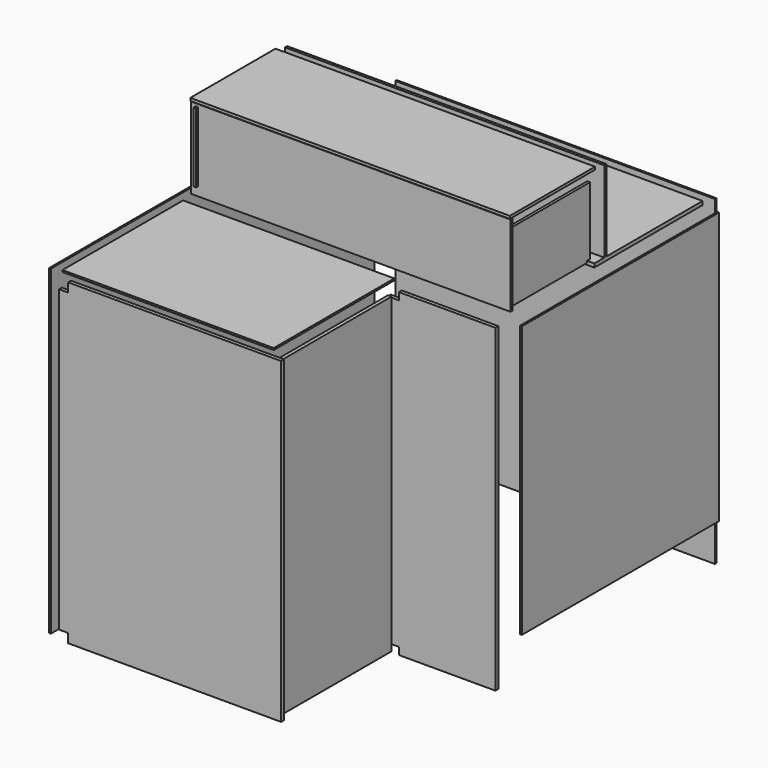
from build123d import *

# Parameters (mm, degrees)
BOX012_W     = 354
BOX012_H     = 118
BOX012_DEPTH = 3
BOX013_W     = 354
BOX013_H     = 90
BOX013_DEPTH = 3
BOX014_W     = 354
BOX014_H     = 90
BOX014_DEPTH = 3
BOX015_W     = 234
BOX015_H     = 167
BOX015_DEPTH = 2
BOX016_W     = 354
BOX016_H     = 150
BOX016_DEPTH = 4
BOX017_W     = 115
BOX017_H     = 77
BOX017_DEPTH = 3
BOX018_W     = 110
BOX018_H     = 77
BOX018_DEPTH = 3
BOX019_W     = 356
BOX019_H     = 448
BOX019_DEPTH = 2
BOX020_W     = 301
BOX020_H     = 273
BOX020_DEPTH = 2
BOX021_W     = 356
BOX021_H     = 354
BOX021_DEPTH = 2
PAD_DEPTH    = 4
PAD001_DEPTH = 4
PAD002_DEPTH = 4


with BuildPart() as obj1:
    # Box012 → Box012 (new body)
    with BuildSketch(Plane(origin=(-212, -59, 415), x_dir=(1, 0, 0), z_dir=(0, 0, 1))):
        with Locations((177, 59)):
            Rectangle(BOX012_W, BOX012_H)
    extrude(amount=BOX012_DEPTH)


with BuildPart() as obj2:
    # Box013 → Box013 (new body)
    with BuildSketch(Plane(origin=(-212, -55, 324), x_dir=(1, 0, 0), z_dir=(0, -1, 0))):
        with Locations((177, 45)):
            Rectangle(BOX013_W, BOX013_H)
    extrude(amount=BOX013_DEPTH)


with BuildPart() as obj3:
    # Box014 → Box014 (new body)
    with BuildSketch(Plane(origin=(-212, 75, 324), x_dir=(1, 0, 0), z_dir=(0, -1, 0))):
        with Locations((177, 45)):
            Rectangle(BOX014_W, BOX014_H)
    extrude(amount=BOX014_DEPTH)


with BuildPart() as obj4:
    # Box015 → Box015 (new body)
    with BuildSketch(Plane(origin=(-212, -236, 320), x_dir=(1, 0, 0), z_dir=(0, 0, 1))):
        with Locations((117, 83.5)):
            Rectangle(BOX015_W, BOX015_H)
    extrude(amount=BOX015_DEPTH)


with BuildPart() as obj5:
    # Box016 → Box016 (new body)
    with BuildSketch(Plane(origin=(-212, 58, 320), x_dir=(1, 0, 0), z_dir=(0, 0, 1))):
        with Locations((177, 75)):
            Rectangle(BOX016_W, BOX016_H)
    extrude(amount=BOX016_DEPTH)


with BuildPart() as obj6:
    # Box017 → Box017 (new body)
    with BuildSketch(Plane(origin=(134, 62, 322), x_dir=(0, -1, 0), z_dir=(-1, 0, 0))):
        with Locations((57.5, 38.5)):
            Rectangle(BOX017_W, BOX017_H)
    extrude(amount=BOX017_DEPTH)


with BuildPart() as obj7:
    # Box018 → Box018 (new body)
    with BuildSketch(Plane(origin=(-207, -61, 334), x_dir=(0, 1, 0), z_dir=(1, 0, 0))):
        with Locations((55, 38.5)):
            Rectangle(BOX018_W, BOX018_H)
    extrude(amount=BOX018_DEPTH)


with BuildPart() as obj8:
    # Box019 → Box019 (new body)
    with BuildSketch(Plane(origin=(-225, -236, -37), x_dir=(0, 0, 1), z_dir=(-1, 0, 0))):
        with Locations((178, 224)):
            Rectangle(BOX019_W, BOX019_H)
    extrude(amount=BOX019_DEPTH)


with BuildPart() as obj9:
    # Box020 → Box020 (new body)
    with BuildSketch(Plane(origin=(155, 212, 15), x_dir=(0, 0, 1), z_dir=(1, 0, 0))):
        with Locations((150.5, 136.5)):
            Rectangle(BOX020_W, BOX020_H)
    extrude(amount=BOX020_DEPTH)


with BuildPart() as obj10:
    # Box021 → Box021 (new body)
    with BuildSketch(Plane(origin=(-212, 225, -37), x_dir=(0, 0, 1), z_dir=(0, 1, 0))):
        with Locations((178, 177)):
            Rectangle(BOX021_W, BOX021_H)
    extrude(amount=BOX021_DEPTH)


with BuildPart() as obj11:
    # Sketch → Pad (new body)
    with BuildSketch(Plane.XZ):
        Polygon((35, 317), (142, 317), (142, -37), (35, -37), (35, -29), (23, -29), (23, 309), (35, 309), align=None)
    extrude(amount=PAD_DEPTH)


with BuildPart() as obj11_1:
    # Body placement: moved
    add(obj11.part.moved(Location((0, -75, 0))))


with BuildPart() as obj12:
    # Sketch001 → Pad001 (new body)
    with BuildSketch(Plane.YZ):
        Polygon((-79, -36), (-230, -36), (-230, -30), (-237, -30), (-237, 310), (-79, 310), align=None)
    extrude(amount=PAD001_DEPTH)


with BuildPart() as obj12_1:
    # Body001 placement: moved
    add(obj12.part.moved(Location((23, 0, 0))))


with BuildPart() as obj13:
    # Sketch002 → Pad002 (new body)
    with BuildSketch(Plane.XZ):
        Polygon((35, 316), (35, -36), (-201, -36), (-201, -26), (-211, -26), (-211, 306), (-201, 306), (-201, 316), align=None)
    extrude(amount=PAD002_DEPTH)


with BuildPart() as obj13_1:
    # Body002 placement: moved
    add(obj13.part.moved(Location((0, -238, 0))))


solid = Compound([obj1.part, obj2.part, obj3.part, obj4.part, obj5.part, obj6.part, obj7.part, obj8.part, obj9.part, obj10.part, obj11_1.part, obj12_1.part, obj13_1.part])
